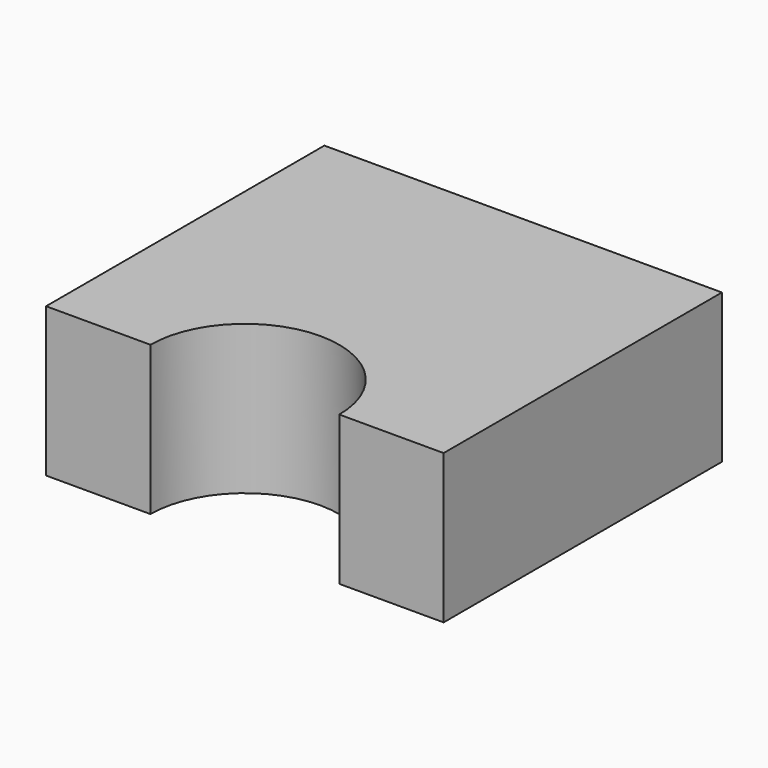
from build123d import *

# Parameters (mm, degrees)
F0_W     = 40
F0_H     = 15
F1_DEPTH = 35
F3_D     = 19


with BuildPart() as f1:
    # F0 (on Front) → F1 (new body)
    with BuildSketch(Plane.XZ):
        with Locations((0, -7.5)):
            Rectangle(F0_W, F0_H)
    extrude(amount=-F1_DEPTH)

    # F3 (through all)
    with Locations(Plane.XY):
        with Locations((0, 0)):
            Hole(F3_D / 2)


solid = f1.part
